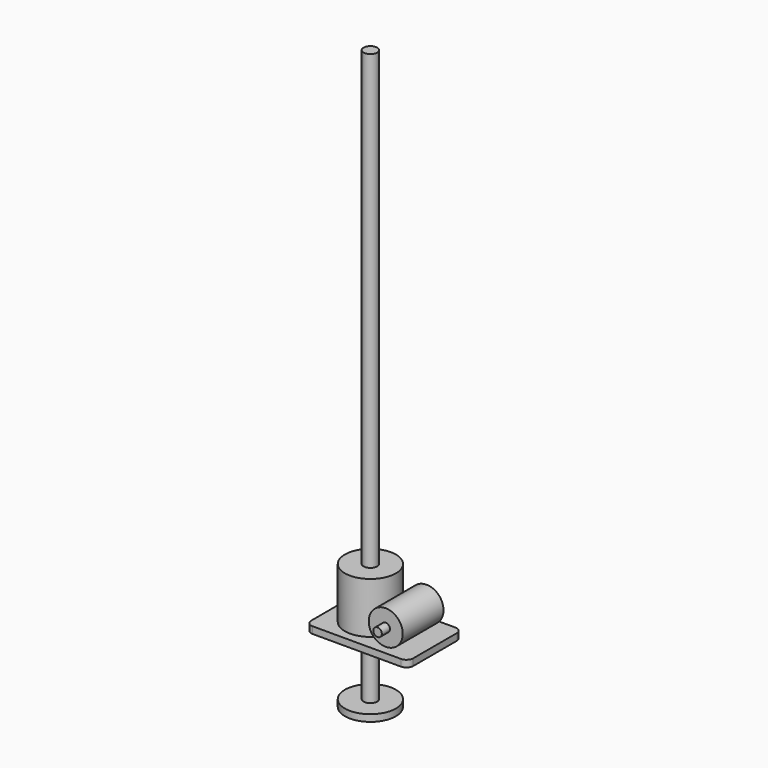
from build123d import *

# Parameters (mm, degrees)
F0_W          = 300
F0_H          = 200
F1_DEPTH      = 20
F2_R          = 75
F3_DEPTH      = 150
F4_R          = 50
F5_DEPTH      = 75
F6_R          = 12.5
F7_DEPTH      = 30
F7_DEPTH_BACK = 180
F8_R          = 20
F9_DEPTH      = 200
F9_DEPTH_BACK = 1500
F10_R         = 75
F11_DEPTH     = 20
F12_R         = 20


with BuildPart() as f1:
    # F0 (on Top) → F1 (new body)
    with BuildSketch(Plane.XY):
        Rectangle(F0_W, F0_H)
    extrude(amount=F1_DEPTH)

    # F2 (on face) → F3 (join)
    with BuildSketch(Plane.XY.offset(20)):
        with Locations((-40, 0)):
            Circle(F2_R)
    extrude(amount=F3_DEPTH)

    # F8 (on face) → F9 (join, two sides)
    with BuildSketch(Plane(origin=(0, 0, 0), x_dir=(1, 0, 0), z_dir=(0, 0, -1))) as f9_sk:
        with Locations((-40, 0)):
            Circle(F8_R)
    extrude(amount=F9_DEPTH)
    extrude(f9_sk.sketch, amount=-F9_DEPTH_BACK)

    # F10 (on face) → F11 (join)
    with BuildSketch(Plane(origin=(0, 0, -200), x_dir=(1, 0, 0), z_dir=(0, 0, -1))):
        with Locations((-40, 0)):
            Circle(F10_R)
    extrude(amount=-F11_DEPTH)

    # F12
    f12_edges = [f1.edges().sort_by_distance(p)[0] for p in [
        (150, 100, 10),
        (150, -100, 10),
        (-150, -100, 10),
        (-150, 100, 10),
    ]]
    fillet(f12_edges, radius=F12_R)


with BuildPart() as f5:
    # F4 (on Front) → F5 (new body, symmetric)
    with BuildSketch(Plane.XZ):
        with Locations((65.069951, 70)):
            Circle(F4_R)
    extrude(amount=F5_DEPTH, both=True)

    # F6 (on face) → F7 (join, two sides)
    with BuildSketch(Plane.XZ.offset(75)) as f7_sk:
        with Locations((65.069951, 70)):
            Circle(F6_R)
    extrude(amount=F7_DEPTH)
    extrude(f7_sk.sketch, amount=-F7_DEPTH_BACK)


solid = Compound([f1.part, f5.part])
